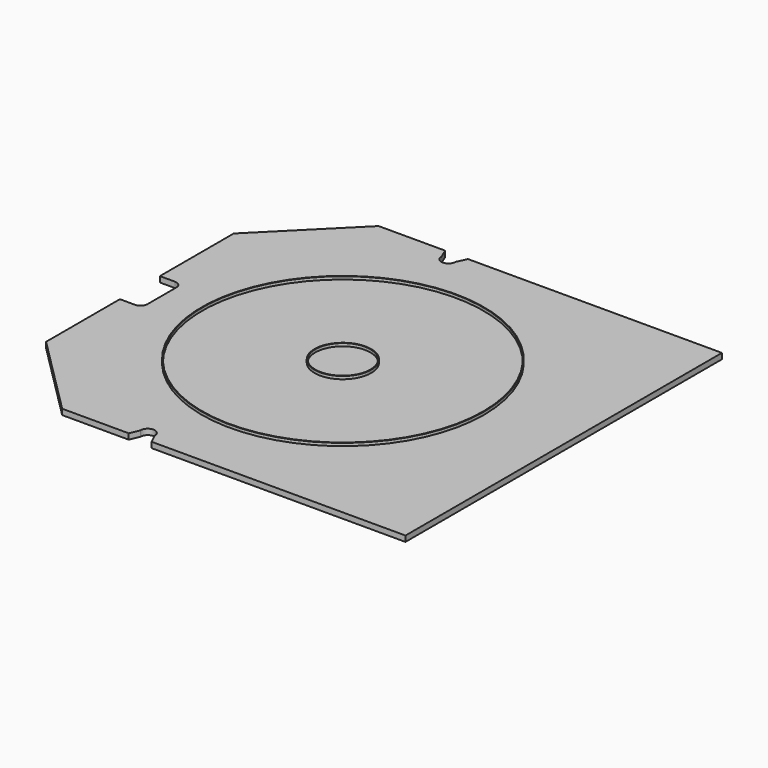
from build123d import *

# Parameters (mm, degrees)
F0_W     = 150
F0_H     = 140
F1_DEPTH = 2
F2_R     = 2.5
F3_DEPTH = 5
F4_R     = 50
F4_R_2   = 49.75
F5_DEPTH = 1
F6_R     = 10
F6_R_2   = 9.75
F7_DEPTH = 1


with BuildPart() as f1:
    # F0 (on Top) → F1 (new body)
    with BuildSketch(Plane.XY):
        Rectangle(F0_W, F0_H)
    extrude(amount=F1_DEPTH)

    # F2 (on face) → F3 (cut)
    with BuildSketch(Plane.XY.offset(2)):
        Polygon((-75, 70), (-75, 41.5), (-46.5, 70), align=None)
        with Locations((-64, 57.6)):
            Circle(F2_R, mode=Mode.SUBTRACT)
        Polygon((-46.5, -70), (-75, -41.5), (-75, -70), align=None)
        with Locations((-64, -57.6)):
            Circle(F2_R, mode=Mode.SUBTRACT)
        with BuildLine():
            Line((-67.1845650673, -6.35), (-67.1845650673, 6.35))
            ThreePointArc((-67.1845650673, 6.35), (-67.9167981143, 8.117766953), (-69.6845650673, 8.85))
            Line((-69.6845650673, 8.85), (-75, 8.85))
            Line((-75, 8.85), (-75, -8.85))
            Line((-75, -8.85), (-69.6845650673, -8.85))
            ThreePointArc((-69.6845650673, -8.85), (-67.9167981143, -8.117766953), (-67.1845650673, -6.35))
        make_face()
        with BuildLine():
            Line((-21.499911428, -66.5210440509), (-22.940942165, -70))
            Line((-22.940942165, -70), (-14.8778247705, -70))
            Line((-14.8778247705, -70), (-16.500088572, -66.5210440509))
            ThreePointArc((-16.500088572, -66.5210440509), (-19, -64), (-21.499911428, -66.5210440509))
        make_face()
        with BuildLine():
            Line((-14.8778247705, 70), (-22.940942165, 70))
            Line((-22.940942165, 70), (-21.499911428, 66.5210440509))
            ThreePointArc((-21.499911428, 66.5210440509), (-19, 64), (-16.500088572, 66.5210440509))
            Line((-16.500088572, 66.5210440509), (-14.8778247705, 70))
        make_face()
        with Locations((-64, 57.6)):
            Circle(F2_R)
        with Locations((-64, -57.6)):
            Circle(F2_R)
    extrude(amount=-F3_DEPTH, mode=Mode.SUBTRACT)

    # F4 (on face) → F5 (join)
    with BuildSketch(Plane.XY.offset(2)):
        with Locations((-3.16328, 0)):
            Circle(F4_R)
        with Locations((-3.16328, 0)):
            Circle(F4_R_2, mode=Mode.SUBTRACT)
    extrude(amount=F5_DEPTH)

    # F6 (on face) → F7 (join)
    with BuildSketch(Plane.XY.offset(2)):
        with Locations((-3.16328, 0)):
            Circle(F6_R)
        with Locations((-3.16328, 0)):
            Circle(F6_R_2, mode=Mode.SUBTRACT)
    extrude(amount=F7_DEPTH)


solid = f1.part
